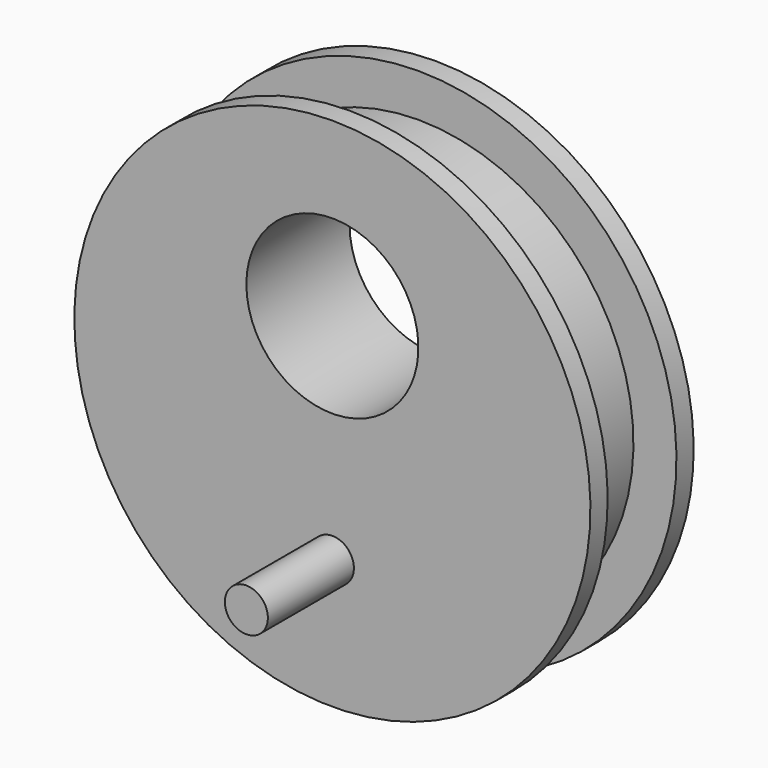
from build123d import *

# Parameters (mm, degrees)
F3_D     = 6.35
F4_R     = 0.79375
F5_DEPTH = 3.96875


with BuildPart() as f1:
    # F0 (on Right) → F1 (revolve)
    with BuildSketch(Plane.YZ):
        Polygon((-2.38125, 9.525), (-2.38125, 0), (0, 0), (2.38125, 0), (2.38125, 9.525), (1.5875, 9.525), (1.5875, 7.9375), (-1.5875, 7.9375), (-1.5875, 9.525), align=None)
    revolve(axis=Axis((0, 1.190625, 0), (0, -1, 0)))

    # F3 (through all)
    with Locations(Plane.XZ.offset(2.38125)):
        with Locations((0, 3.175)):
            Hole(F3_D / 2)

    # F4 (on face) → F5 (join)
    with BuildSketch(Plane.XZ.offset(2.38125)):
        with Locations((0, -4.7625)):
            Circle(F4_R)
    extrude(amount=F5_DEPTH)


solid = f1.part
